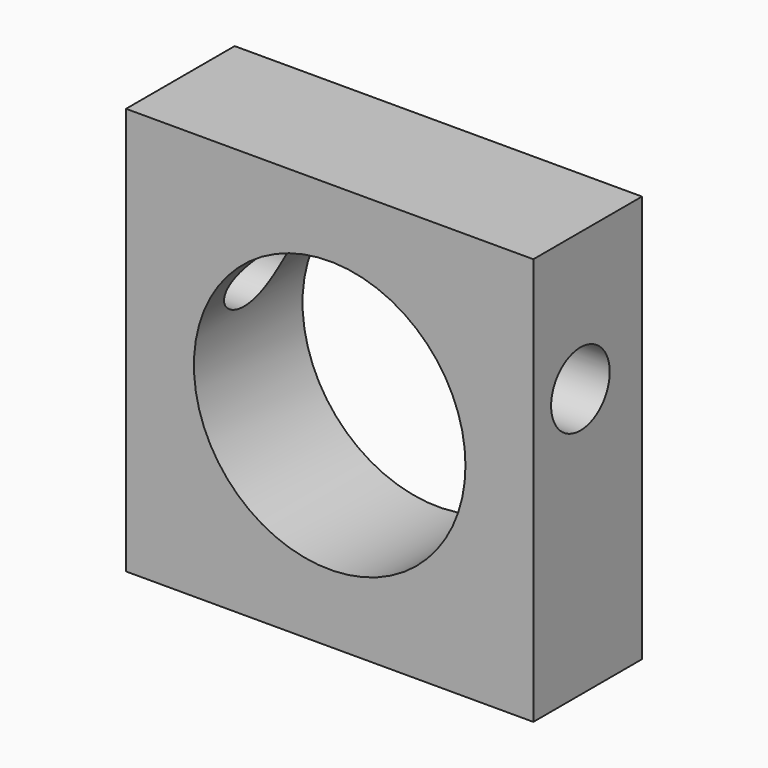
from build123d import *

# Parameters (mm, degrees)
F0_W     = 75
F0_H     = 75
F0_R     = 25
F1_DEPTH = 25
F2_R     = 6.748312
F3_DEPTH = 92


with BuildPart() as f1:
    # F0 (on Front) → F1 (new body)
    with BuildSketch(Plane.XZ):
        with Locations((37.5, 37.5)):
            Rectangle(F0_W, F0_H)
        with Locations((37.5, 37.5)):
            Circle(F0_R, mode=Mode.SUBTRACT)
    extrude(amount=F1_DEPTH)

    # F2 (on face) → F3 (cut)
    with BuildSketch(Plane.YZ.offset(75)):
        with Locations((-14.165656, 49.573101)):
            Circle(F2_R)
    extrude(amount=-F3_DEPTH, mode=Mode.SUBTRACT)


solid = f1.part
